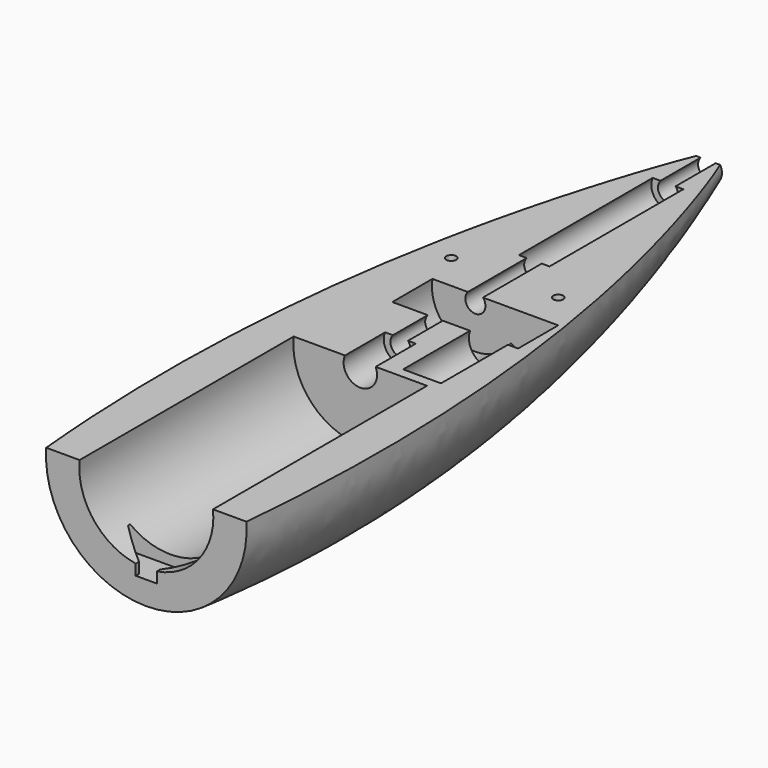
from build123d import *

# Parameters (mm, degrees)
PAD010_DEPTH      = 7
SKETCH014_R       = 20.0437
PAD009_DEPTH      = 100
PAD_DEPTH         = 10
SKETCH006_R       = 3.009992
PAD002_DEPTH      = 100
FUSION_ROLL_ANGLE = 90
SKETCH011_R       = 5
PAD007_DEPTH      = 50
SKETCH010_R       = 5
PAD006_DEPTH      = 50
SKETCH008_R       = 13
PAD004_DEPTH      = 15
SKETCH009_R       = 9
PAD005_DEPTH      = 15
SKETCH013_R       = 6
PAD008_DEPTH      = 26
BOX_W             = 50
BOX_H             = 240
BOX_DEPTH         = 100
BOX_PITCH_ANGLE   = -90
SKETCH_R          = 4.120219
SKETCH001_R       = 27
SKETCH002_R       = 30
SKETCH015_R       = 1.5
POCKET_DEPTH      = 5


with BuildPart() as pad010:
    # Sketch016 → Pad010 (new body)
    with BuildSketch(Plane(origin=(0, -120, -23), x_dir=(1, 0, 0), z_dir=(0, 0, 1))):
        Polygon((-13.08635, 9.035868), (-3.156634, 1.211386), (-3.156634, -214.864685), (3.156634, -214.864685), (3.156634, 1.211386), (13.08635, 9.035868), align=None)
    extrude(amount=PAD010_DEPTH)


with BuildPart() as buco:
    # Sketch014 → Pad009 (new body)
    with BuildSketch(Plane.XZ.offset(40)):
        Circle(SKETCH014_R)
    extrude(amount=PAD009_DEPTH)


with BuildPart() as pad:
    # InvoluteGear → Pad (new body)
    with BuildSketch(Plane.XY):
        with BuildLine():
            Line((8.355513, -1.029758), (9.548181, -1.175965))
            add(Edge.make_bspline(
                [(9.548181, -1.175965), (9.5967, -1.178924), (9.742908, -1.18188), (9.988316, -1.135943)],
                knots=[0, 0, 0, 0, 1, 1, 1, 1], degree=3))
            add(Edge.make_bspline(
                [(9.988316, -1.135943), (10.281884, -1.080014), (10.705563, -0.954393), (11.230767, -0.676657)],
                knots=[0, 0, 0, 0, 1, 1, 1, 1], degree=3))
            ThreePointArc((11.230767, -0.676657), (11.251135, 0), (11.230767, 0.676657))
            add(Edge.make_bspline(
                [(11.230767, 0.676657), (10.705563, 0.954393), (10.281884, 1.080014), (9.988316, 1.135943)],
                knots=[0, 0, 0, 0, 1, 1, 1, 1], degree=3))
            add(Edge.make_bspline(
                [(9.988316, 1.135943), (9.742908, 1.18188), (9.5967, 1.178924), (9.548181, 1.175965)],
                knots=[0, 0, 0, 0, 1, 1, 1, 1], degree=3))
            Line((9.548181, 1.175965), (8.355513, 1.029758))
            ThreePointArc((8.355513, 1.029758), (7.956052, 1.132981), (7.734481, 1.48102))
            ThreePointArc((7.734481, 1.48102), (7.646167, 1.884611), (7.536808, 2.283014))
            ThreePointArc((7.536808, 2.283014), (7.571257, 2.694156), (7.876992, 2.971196))
            Line((7.876992, 2.971196), (9.000992, 3.395996))
            add(Edge.make_bspline(
                [(9.000992, 3.395996), (9.04533, 3.415923), (9.176163, 3.481252), (9.372113, 3.635975)],
                knots=[0, 0, 0, 0, 1, 1, 1, 1], degree=3))
            add(Edge.make_bspline(
                [(9.372113, 3.635975), (9.606064, 3.821924), (9.922834, 4.130051), (10.258808, 4.620047)],
                knots=[0, 0, 0, 0, 1, 1, 1, 1], degree=3))
            ThreePointArc((10.258808, 4.620047), (9.962385, 5.228663), (9.629892, 5.818348))
            add(Edge.make_bspline(
                [(9.629892, 5.818348), (9.035777, 5.820196), (8.602248, 5.734535), (8.316315, 5.647629)],
                knots=[0, 0, 0, 0, 1, 1, 1, 1], degree=3))
            add(Edge.make_bspline(
                [(8.316315, 5.647629), (8.077669, 5.574257), (7.949583, 5.503695), (7.907996, 5.478526)],
                knots=[0, 0, 0, 0, 1, 1, 1, 1], degree=3))
            Line((7.907996, 5.478526), (6.919887, 4.794806))
            ThreePointArc((6.919887, 4.794806), (6.518211, 4.700567), (6.160279, 4.905771))
            ThreePointArc((6.160279, 4.905771), (5.894522, 5.222091), (5.612542, 5.524038))
            ThreePointArc((5.612542, 5.524038), (5.451978, 5.904095), (5.593946, 6.291484))
            Line((5.593946, 6.291484), (6.391785, 7.189975))
            add(Edge.make_bspline(
                [(6.391785, 7.189975), (6.421783, 7.228224), (6.50727, 7.346872), (6.608872, 7.574934)],
                knots=[0, 0, 0, 0, 1, 1, 1, 1], degree=3))
            add(Edge.make_bspline(
                [(6.608872, 7.574934), (6.72961, 7.848306), (6.866903, 8.268349), (6.936681, 8.858355)],
                knots=[0, 0, 0, 0, 1, 1, 1, 1], degree=3))
            ThreePointArc((6.936681, 8.858355), (6.391373, 9.259502), (5.822925, 9.627125))
            add(Edge.make_bspline(
                [(5.822925, 9.627125), (5.296003, 9.352662), (4.951941, 9.075343), (4.739148, 8.865511)],
                knots=[0, 0, 0, 0, 1, 1, 1, 1], degree=3))
            add(Edge.make_bspline(
                [(4.739148, 8.865511), (4.561934, 8.68964), (4.481311, 8.567635), (4.456185, 8.526023)],
                knots=[0, 0, 0, 0, 1, 1, 1, 1], degree=3))
            Line((4.456185, 8.526023), (3.898999, 7.461421))
            ThreePointArc((3.898999, 7.461421), (3.587127, 7.191309), (3.17483, 7.206669))
            ThreePointArc((3.17483, 7.206669), (2.792513, 7.363253), (2.402511, 7.499571))
            ThreePointArc((2.402511, 7.499571), (2.083717, 7.761477), (2.029395, 8.170468))
            Line((2.029395, 8.170468), (2.318297, 9.336817))
            add(Edge.make_bspline(
                [(2.318297, 9.336817), (2.327083, 9.384626), (2.34764, 9.529411), (2.331619, 9.778567)],
                knots=[0, 0, 0, 0, 1, 1, 1, 1], degree=3))
            add(Edge.make_bspline(
                [(2.331619, 9.778567), (2.311484, 10.076736), (2.237847, 10.512468), (2.025443, 11.06732)],
                knots=[0, 0, 0, 0, 1, 1, 1, 1], degree=3))
            ThreePointArc((2.025443, 11.06732), (1.356174, 11.169101), (0.681996, 11.230444))
            add(Edge.make_bspline(
                [(0.681996, 11.230444), (0.342979, 10.742547), (0.167204, 10.337099), (0.076298, 10.052412)],
                knots=[0, 0, 0, 0, 1, 1, 1, 1], degree=3))
            add(Edge.make_bspline(
                [(0.076298, 10.052412), (0.001115, 9.814331), (-0.013574, 9.668833), (-0.016485, 9.620311)],
                knots=[0, 0, 0, 0, 1, 1, 1, 1], degree=3))
            Line((-0.016485, 9.620311), (-0.015104, 8.418716))
            ThreePointArc((-0.015104, 8.418716), (-0.165725, 8.034609), (-0.537933, 7.856606))
            ThreePointArc((-0.537933, 7.856606), (-0.949226, 7.817582), (-1.357907, 7.757043))
            ThreePointArc((-1.357907, 7.757043), (-1.761899, 7.840798), (-2.000066, 8.177698))
            Line((-2.000066, 8.177698), (-2.286285, 9.344707))
            add(Edge.make_bspline(
                [(-2.286285, 9.344707), (-2.300723, 9.391123), (-2.349806, 9.528877), (-2.479781, 9.742048)],
                knots=[0, 0, 0, 0, 1, 1, 1, 1], degree=3))
            add(Edge.make_bspline(
                [(-2.479781, 9.742048), (-2.636175, 9.996707), (-2.903872, 10.348308), (-3.349799, 10.740895)],
                knots=[0, 0, 0, 0, 1, 1, 1, 1], degree=3))
            ThreePointArc((-3.349799, 10.740895), (-3.989707, 10.519994), (-4.61517, 10.261003))
            add(Edge.make_bspline(
                [(-4.61517, 10.261003), (-4.688617, 9.671443), (-4.655837, 9.23075), (-4.60403, 8.936427)],
                knots=[0, 0, 0, 0, 1, 1, 1, 1], degree=3))
            add(Edge.make_bspline(
                [(-4.60403, 8.936427), (-4.559959, 8.690677), (-4.50535, 8.555018), (-4.485378, 8.510701)],
                knots=[0, 0, 0, 0, 1, 1, 1, 1], degree=3))
            Line((-4.485378, 8.510701), (-3.925746, 7.447383))
            ThreePointArc((-3.925746, 7.447383), (-3.880611, 7.037277), (-4.127463, 6.706689))
            ThreePointArc((-4.127463, 6.706689), (-4.47351, 6.480998), (-4.807244, 6.23747))
            ThreePointArc((-4.807244, 6.23747), (-5.203885, 6.123887), (-5.571336, 6.311515))
            Line((-5.571336, 6.311515), (-6.367107, 7.211837))
            add(Edge.make_bspline(
                [(-6.367107, 7.211837), (-6.401462, 7.246227), (-6.50894, 7.345392), (-6.723092, 7.473744)],
                knots=[0, 0, 0, 0, 1, 1, 1, 1], degree=3))
            add(Edge.make_bspline(
                [(-6.723092, 7.473744), (-6.979918, 7.626553), (-7.38035, 7.813474), (-7.957643, 7.953861)],
                knots=[0, 0, 0, 0, 1, 1, 1, 1], degree=3))
            ThreePointArc((-7.957643, 7.953861), (-8.421595, 7.460882), (-8.855056, 6.940891))
            add(Edge.make_bspline(
                [(-8.855056, 6.940891), (-8.646108, 6.384728), (-8.412283, 6.009748), (-8.229631, 5.773213)],
                knots=[0, 0, 0, 0, 1, 1, 1, 1], degree=3))
            add(Edge.make_bspline(
                [(-8.229631, 5.773213), (-8.076402, 5.576093), (-7.965005, 5.481352), (-7.926725, 5.451393)],
                knots=[0, 0, 0, 0, 1, 1, 1, 1], degree=3))
            Line((-7.926725, 5.451393), (-6.937047, 4.769945))
            ThreePointArc((-6.937047, 4.769945), (-6.706496, 4.427789), (-6.771441, 4.02035))
            ThreePointArc((-6.771441, 4.02035), (-6.972966, 3.659695), (-7.1553, 3.288967))
            ThreePointArc((-7.1553, 3.288967), (-7.453723, 3.004067), (-7.86628, 2.99944))
            Line((-7.86628, 2.99944), (-8.989301, 3.426823))
            add(Edge.make_bspline(
                [(-8.989301, 3.426823), (-9.035703, 3.441308), (-9.176954, 3.479167), (-9.426224, 3.493294)],
                knots=[0, 0, 0, 0, 1, 1, 1, 1], degree=3))
            add(Edge.make_bspline(
                [(-9.426224, 3.493294), (-9.724647, 3.509247), (-10.166078, 3.488669), (-10.742486, 3.344693)],
                knots=[0, 0, 0, 0, 1, 1, 1, 1], degree=3))
            ThreePointArc((-10.742486, 3.344693), (-10.924197, 2.692573), (-11.066356, 2.030704))
            add(Edge.make_bspline(
                [(-11.066356, 2.030704), (-10.62288, 1.635349), (-10.241575, 1.411985), (-9.969922, 1.287426)],
                knots=[0, 0, 0, 0, 1, 1, 1, 1], degree=3))
            add(Edge.make_bspline(
                [(-9.969922, 1.287426), (-9.742639, 1.184094), (-9.599973, 1.151974), (-9.552155, 1.143236)],
                knots=[0, 0, 0, 0, 1, 1, 1, 1], degree=3))
            Line((-9.552155, 1.143236), (-8.359154, 0.99977))
            ThreePointArc((-8.359154, 0.99977), (-7.996004, 0.803949), (-7.864163, 0.412998))
            ThreePointArc((-7.864163, 0.412998), (-7.875, 0), (-7.864163, -0.412998))
            ThreePointArc((-7.864163, -0.412998), (-7.996004, -0.803949), (-8.359154, -0.99977))
            Line((-8.359154, -0.99977), (-9.552155, -1.143236))
            add(Edge.make_bspline(
                [(-9.552155, -1.143236), (-9.599973, -1.151974), (-9.742639, -1.184094), (-9.969922, -1.287426)],
                knots=[0, 0, 0, 0, 1, 1, 1, 1], degree=3))
            add(Edge.make_bspline(
                [(-9.969922, -1.287426), (-10.241575, -1.411985), (-10.62288, -1.635349), (-11.066356, -2.030704)],
                knots=[0, 0, 0, 0, 1, 1, 1, 1], degree=3))
            ThreePointArc((-11.066356, -2.030704), (-10.924197, -2.692573), (-10.742486, -3.344693))
            add(Edge.make_bspline(
                [(-10.742486, -3.344693), (-10.166078, -3.488669), (-9.724647, -3.509247), (-9.426224, -3.493294)],
                knots=[0, 0, 0, 0, 1, 1, 1, 1], degree=3))
            add(Edge.make_bspline(
                [(-9.426224, -3.493294), (-9.176954, -3.479167), (-9.035703, -3.441308), (-8.989301, -3.426823)],
                knots=[0, 0, 0, 0, 1, 1, 1, 1], degree=3))
            Line((-8.989301, -3.426823), (-7.86628, -2.99944))
            ThreePointArc((-7.86628, -2.99944), (-7.453723, -3.004067), (-7.1553, -3.288967))
            ThreePointArc((-7.1553, -3.288967), (-6.972966, -3.659695), (-6.771441, -4.02035))
            ThreePointArc((-6.771441, -4.02035), (-6.706496, -4.427789), (-6.937047, -4.769945))
            Line((-6.937047, -4.769945), (-7.926725, -5.451393))
            add(Edge.make_bspline(
                [(-7.926725, -5.451393), (-7.965005, -5.481352), (-8.076402, -5.576093), (-8.229631, -5.773213)],
                knots=[0, 0, 0, 0, 1, 1, 1, 1], degree=3))
            add(Edge.make_bspline(
                [(-8.229631, -5.773213), (-8.412283, -6.009748), (-8.646108, -6.384728), (-8.855056, -6.940891)],
                knots=[0, 0, 0, 0, 1, 1, 1, 1], degree=3))
            ThreePointArc((-8.855056, -6.940891), (-8.421595, -7.460882), (-7.957643, -7.953861))
            add(Edge.make_bspline(
                [(-7.957643, -7.953861), (-7.38035, -7.813474), (-6.979918, -7.626553), (-6.723092, -7.473744)],
                knots=[0, 0, 0, 0, 1, 1, 1, 1], degree=3))
            add(Edge.make_bspline(
                [(-6.723092, -7.473744), (-6.50894, -7.345392), (-6.401462, -7.246227), (-6.367107, -7.211837)],
                knots=[0, 0, 0, 0, 1, 1, 1, 1], degree=3))
            Line((-6.367107, -7.211837), (-5.571336, -6.311515))
            ThreePointArc((-5.571336, -6.311515), (-5.203885, -6.123887), (-4.807244, -6.23747))
            ThreePointArc((-4.807244, -6.23747), (-4.47351, -6.480998), (-4.127463, -6.706689))
            ThreePointArc((-4.127463, -6.706689), (-3.880611, -7.037277), (-3.925746, -7.447383))
            Line((-3.925746, -7.447383), (-4.485378, -8.510701))
            add(Edge.make_bspline(
                [(-4.485378, -8.510701), (-4.50535, -8.555018), (-4.559959, -8.690677), (-4.60403, -8.936427)],
                knots=[0, 0, 0, 0, 1, 1, 1, 1], degree=3))
            add(Edge.make_bspline(
                [(-4.60403, -8.936427), (-4.655837, -9.23075), (-4.688617, -9.671443), (-4.61517, -10.261003)],
                knots=[0, 0, 0, 0, 1, 1, 1, 1], degree=3))
            ThreePointArc((-4.61517, -10.261003), (-3.989707, -10.519994), (-3.349799, -10.740895))
            add(Edge.make_bspline(
                [(-3.349799, -10.740895), (-2.903872, -10.348308), (-2.636175, -9.996707), (-2.479781, -9.742048)],
                knots=[0, 0, 0, 0, 1, 1, 1, 1], degree=3))
            add(Edge.make_bspline(
                [(-2.479781, -9.742048), (-2.349806, -9.528877), (-2.300723, -9.391123), (-2.286285, -9.344707)],
                knots=[0, 0, 0, 0, 1, 1, 1, 1], degree=3))
            Line((-2.286285, -9.344707), (-2.000066, -8.177698))
            ThreePointArc((-2.000066, -8.177698), (-1.761899, -7.840798), (-1.357907, -7.757043))
            ThreePointArc((-1.357907, -7.757043), (-0.949226, -7.817582), (-0.537933, -7.856606))
            ThreePointArc((-0.537933, -7.856606), (-0.165725, -8.034609), (-0.015104, -8.418716))
            Line((-0.015104, -8.418716), (-0.016485, -9.620311))
            add(Edge.make_bspline(
                [(-0.016485, -9.620311), (-0.013574, -9.668833), (0.001115, -9.814331), (0.076298, -10.052412)],
                knots=[0, 0, 0, 0, 1, 1, 1, 1], degree=3))
            add(Edge.make_bspline(
                [(0.076298, -10.052412), (0.167204, -10.337099), (0.342979, -10.742547), (0.681996, -11.230444)],
                knots=[0, 0, 0, 0, 1, 1, 1, 1], degree=3))
            ThreePointArc((0.681996, -11.230444), (1.356174, -11.169101), (2.025443, -11.06732))
            add(Edge.make_bspline(
                [(2.025443, -11.06732), (2.237847, -10.512468), (2.311484, -10.076736), (2.331619, -9.778567)],
                knots=[0, 0, 0, 0, 1, 1, 1, 1], degree=3))
            add(Edge.make_bspline(
                [(2.331619, -9.778567), (2.34764, -9.529411), (2.327083, -9.384626), (2.318297, -9.336817)],
                knots=[0, 0, 0, 0, 1, 1, 1, 1], degree=3))
            Line((2.318297, -9.336817), (2.029395, -8.170468))
            ThreePointArc((2.029395, -8.170468), (2.083717, -7.761477), (2.402511, -7.499571))
            ThreePointArc((2.402511, -7.499571), (2.792513, -7.363253), (3.17483, -7.206669))
            ThreePointArc((3.17483, -7.206669), (3.587127, -7.191309), (3.898999, -7.461421))
            Line((3.898999, -7.461421), (4.456185, -8.526023))
            add(Edge.make_bspline(
                [(4.456185, -8.526023), (4.481311, -8.567635), (4.561934, -8.68964), (4.739148, -8.865511)],
                knots=[0, 0, 0, 0, 1, 1, 1, 1], degree=3))
            add(Edge.make_bspline(
                [(4.739148, -8.865511), (4.951941, -9.075343), (5.296003, -9.352662), (5.822925, -9.627125)],
                knots=[0, 0, 0, 0, 1, 1, 1, 1], degree=3))
            ThreePointArc((5.822925, -9.627125), (6.391373, -9.259502), (6.936681, -8.858355))
            add(Edge.make_bspline(
                [(6.936681, -8.858355), (6.866903, -8.268349), (6.72961, -7.848306), (6.608872, -7.574934)],
                knots=[0, 0, 0, 0, 1, 1, 1, 1], degree=3))
            add(Edge.make_bspline(
                [(6.608872, -7.574934), (6.50727, -7.346872), (6.421783, -7.228224), (6.391785, -7.189975)],
                knots=[0, 0, 0, 0, 1, 1, 1, 1], degree=3))
            Line((6.391785, -7.189975), (5.593946, -6.291484))
            ThreePointArc((5.593946, -6.291484), (5.451978, -5.904095), (5.612542, -5.524038))
            ThreePointArc((5.612542, -5.524038), (5.894522, -5.222091), (6.160279, -4.905771))
            ThreePointArc((6.160279, -4.905771), (6.518211, -4.700567), (6.919887, -4.794806))
            Line((6.919887, -4.794806), (7.907996, -5.478526))
            add(Edge.make_bspline(
                [(7.907996, -5.478526), (7.949583, -5.503695), (8.077669, -5.574257), (8.316315, -5.647629)],
                knots=[0, 0, 0, 0, 1, 1, 1, 1], degree=3))
            add(Edge.make_bspline(
                [(8.316315, -5.647629), (8.602248, -5.734535), (9.035777, -5.820196), (9.629892, -5.818348)],
                knots=[0, 0, 0, 0, 1, 1, 1, 1], degree=3))
            ThreePointArc((9.629892, -5.818348), (9.962385, -5.228663), (10.258808, -4.620047))
            add(Edge.make_bspline(
                [(10.258808, -4.620047), (9.922834, -4.130051), (9.606064, -3.821924), (9.372113, -3.635975)],
                knots=[0, 0, 0, 0, 1, 1, 1, 1], degree=3))
            add(Edge.make_bspline(
                [(9.372113, -3.635975), (9.176163, -3.481252), (9.04533, -3.415923), (9.000992, -3.395996)],
                knots=[0, 0, 0, 0, 1, 1, 1, 1], degree=3))
            Line((9.000992, -3.395996), (7.876992, -2.971196))
            ThreePointArc((7.876992, -2.971196), (7.571257, -2.694156), (7.536808, -2.283014))
            ThreePointArc((7.536808, -2.283014), (7.646167, -1.884611), (7.734481, -1.48102))
            ThreePointArc((7.734481, -1.48102), (7.956052, -1.132981), (8.355513, -1.029758))
        make_face()
    extrude(amount=PAD_DEPTH)


with BuildPart() as ingranaggio_senza_buco:
    # Sketch006 → Pad002 (new body, symmetric)
    with BuildSketch(Plane(origin=(0, 0, 0), x_dir=(1, 0, 0), z_dir=(0, 0, -1))):
        Circle(SKETCH006_R)
    extrude(amount=PAD002_DEPTH, both=True)

    # Fusion: union Pad
    add(pad.part)


with BuildPart() as ingranaggio_senza_buco_1:
    # Fusion roll: moved
    add(ingranaggio_senza_buco.part.rotate(Axis((0, 0, 0), (1, 0, 0)), FUSION_ROLL_ANGLE))


with BuildPart() as ingranaggio_senza_buco_2:
    # Fusion placement: moved
    add(ingranaggio_senza_buco_1.part)

    # Cut005: cut buco
    add(buco.part, mode=Mode.SUBTRACT)


with BuildPart() as pad007:
    # Sketch011 → Pad007 (new body)
    with BuildSketch(Plane.XZ.offset(-75)):
        Circle(SKETCH011_R)
    extrude(amount=PAD007_DEPTH)


with BuildPart() as scassi_perno:
    # Sketch010 → Pad006 (new body)
    with BuildSketch(Plane.XZ.offset(25)):
        Circle(SKETCH010_R)
    extrude(amount=PAD006_DEPTH)

    # Fusion002: union Pad007
    add(pad007.part)


with BuildPart() as scasso_ruota_dentata:
    # Sketch008 → Pad004 (new body)
    with BuildSketch(Plane.XZ.offset(-3)):
        Circle(SKETCH008_R)
    extrude(amount=PAD004_DEPTH)


with BuildPart() as obj1:
    # Sketch009 → Pad005 (new body)
    with BuildSketch(Plane.XZ.offset(-3)):
        with Locations((15.997087, 9e-06)):
            Circle(SKETCH009_R)
    extrude(amount=PAD005_DEPTH)

    # Fusion001: union scasso_ruota_dentata
    add(scasso_ruota_dentata.part)


with BuildPart() as scassi_tutti:
    # Sketch013 → Pad008 (new body)
    with BuildSketch(Plane.XZ.offset(11)):
        with Locations((16.059561, 9e-06)):
            Circle(SKETCH013_R)
    extrude(amount=PAD008_DEPTH)

    # Fusion005: union scassi_perno, obj1
    add(scassi_perno.part)
    add(obj1.part)


with BuildPart() as cubo:
    # Box → Box (new body)
    with BuildSketch(Plane.XY):
        with Locations((25, 120)):
            Rectangle(BOX_W, BOX_H)
    extrude(amount=BOX_DEPTH)


with BuildPart() as cubo_1:
    # Box pitch: moved
    add(cubo.part.rotate(Axis((0, 0, 0), (0, 1, 0)), BOX_PITCH_ANGLE))


with BuildPart() as cubo_2:
    # Box placement: moved
    add(cubo_1.part.moved(Location((50, -140, 2))))


with BuildPart() as obj2:
    # Sketch → Loft section 0
    with BuildSketch(Plane.XZ.offset(-90)):
        Circle(SKETCH_R)
    # Sketch001 → Loft section 1
    with BuildSketch(Plane.XZ):
        Circle(SKETCH001_R)
    # Sketch002 → Loft section 2
    with BuildSketch(Plane.XZ.offset(120)):
        Circle(SKETCH002_R)
    loft()

    # Cut: cut Cubo
    add(cubo_2.part, mode=Mode.SUBTRACT)

    # Cut001: cut scassi_tutti
    add(scassi_tutti.part, mode=Mode.SUBTRACT)

    # Cut003: cut buco
    add(buco.part, mode=Mode.SUBTRACT)

    # Cut006: cut ingranaggio_senza_buco
    add(ingranaggio_senza_buco_2.part, mode=Mode.SUBTRACT)

    # Sketch015 → Pocket (cut)
    with BuildSketch(Plane.XY.offset(2)):
        with Locations((-16, 14)):
            Circle(SKETCH015_R)
    pocket = extrude(amount=-POCKET_DEPTH, mode=Mode.SUBTRACT)

    # Mirrored: Pocket across Sketch015 V_Axis
    add(pocket.mirror(Plane(origin=(0, 0, 2), x_dir=(0, 0, 1), z_dir=(1, 0, 0))), mode=Mode.SUBTRACT)

    # Cut007: cut Pad010
    add(pad010.part, mode=Mode.SUBTRACT)


solid = obj2.part
